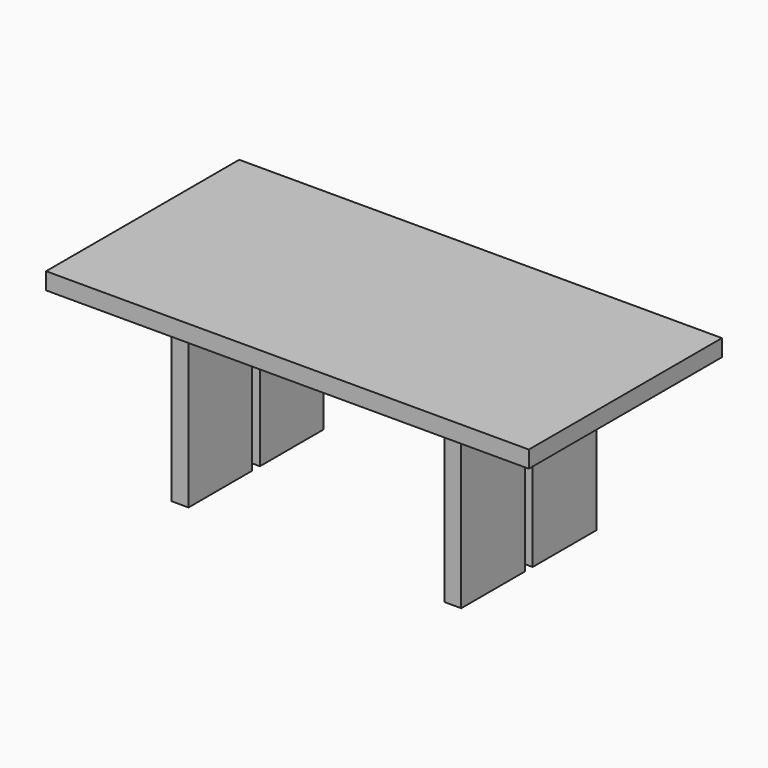
from build123d import *

# Parameters (mm, degrees)
F0_W     = 2000
F0_H     = 1000
F1_DEPTH = 70
F2_W     = 70
F2_H     = 700
F3_DEPTH = 700
F4_W     = 40
F4_H     = 700
F5_DEPTH = 1600.001


with BuildPart() as f1:
    # F0 (on Top) → F1 (new body)
    with BuildSketch(Plane.XY):
        with Locations((1000, 500)):
            Rectangle(F0_W, F0_H)
    extrude(amount=F1_DEPTH)

    # F2 (on Top) → F3 (join)
    with BuildSketch(Plane.XY):
        with Locations((435, 500)):
            Rectangle(F2_W, F2_H)
        with Locations((1565, 500)):
            Rectangle(F2_W, F2_H)
    extrude(amount=-F3_DEPTH)

    # F4 (on face) → F5 (cut, through all)
    with BuildSketch(Plane.YZ.offset(1600)):
        with Locations((500, -350)):
            Rectangle(F4_W, F4_H)
    extrude(amount=-F5_DEPTH, mode=Mode.SUBTRACT)


solid = f1.part
